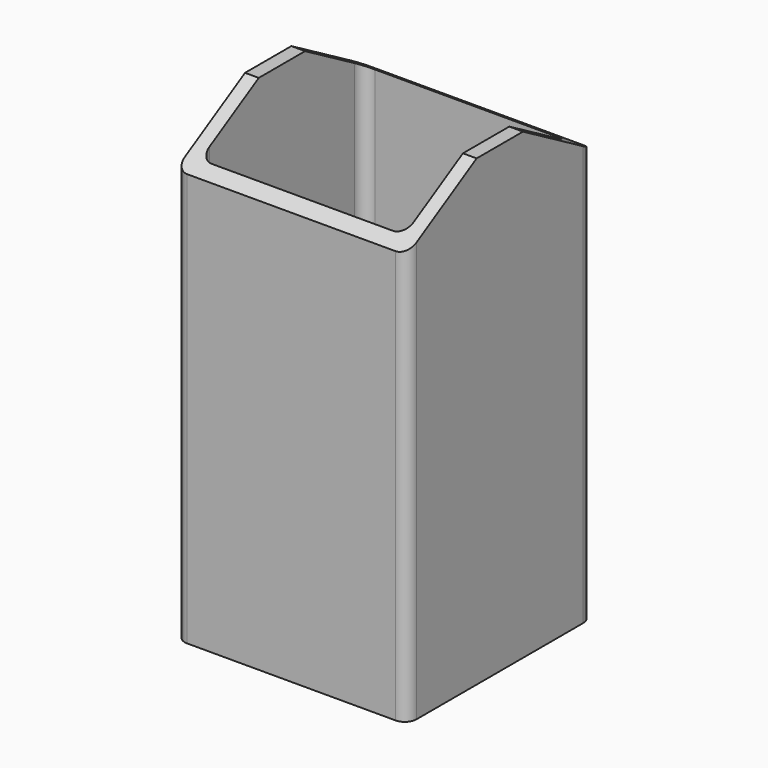
from build123d import *

# Parameters (mm, degrees)
F0_W     = 89.5604
F0_H     = 89.5604
F1_DEPTH = 203.2
F3_DEPTH = 101.6
F4_R     = 5.08


with BuildPart() as f1:
    # F0 (on Top) → F1 (new body)
    with BuildSketch(Plane.XY):
        Polygon((0, 50.8), (-50.8, 50.8), (-50.8, 0), (-50.8, -50.8), (0, -50.8), (50.8, -50.8), (50.8, 0), (50.8, 50.8), align=None)
        Rectangle(F0_W, F0_H, mode=Mode.SUBTRACT)
    extrude(amount=F1_DEPTH)

    # F2 (on face) → F3 (cut)
    with BuildSketch(Plane.YZ.offset(50.8)):
        Polygon((-12.7, 203.2), (-50.8, 203.2), (-50.8, 181.202955), align=None)
        Polygon((50.8, 203.2), (12.7, 203.2), (50.8, 181.202955), align=None)
    extrude(amount=-F3_DEPTH, mode=Mode.SUBTRACT)

    # F4
    f4_edges = [f1.edges().sort_by_distance(p)[0] for p in [
        (-50.8, -50.8, 90.601477),
        (50.8, -50.8, 90.601477),
        (50.8, 50.8, 90.601477),
        (-44.7802, 44.7802, 92.339244),
        (-44.7802, -44.7802, 92.339244),
        (-50.8, 50.8, 90.601477),
        (44.7802, -44.7802, 92.339244),
        (44.7802, 44.7802, 92.339244),
    ]]
    fillet(f4_edges, radius=F4_R)


solid = f1.part
